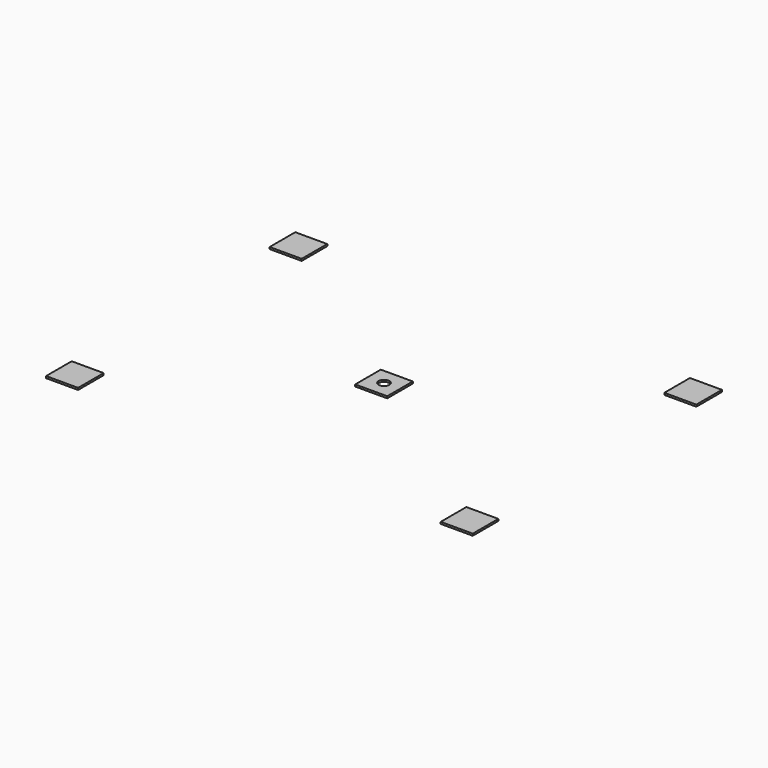
from build123d import *

# Parameters (mm, degrees)
F0_W     = 15
F0_H     = 15
F0_R     = 2.5
F1_DEPTH = 0.9


with BuildPart() as f1:
    # F0 (on Top) → F1 (new body)
    with BuildSketch(Plane.XY):
        with Locations((7.5, 7.5)):
            Rectangle(F0_W, F0_H)
        with Locations((192.5, 7.5)):
            Rectangle(F0_W, F0_H)
        with Locations((192.5, 138.5)):
            Rectangle(F0_W, F0_H)
        with Locations((7.5, 138.5)):
            Rectangle(F0_W, F0_H)
        with Locations((100, 73)):
            Rectangle(F0_W, F0_H)
        with Locations((100, 73)):
            Circle(F0_R, mode=Mode.SUBTRACT)
    extrude(amount=F1_DEPTH)


solid = f1.part
